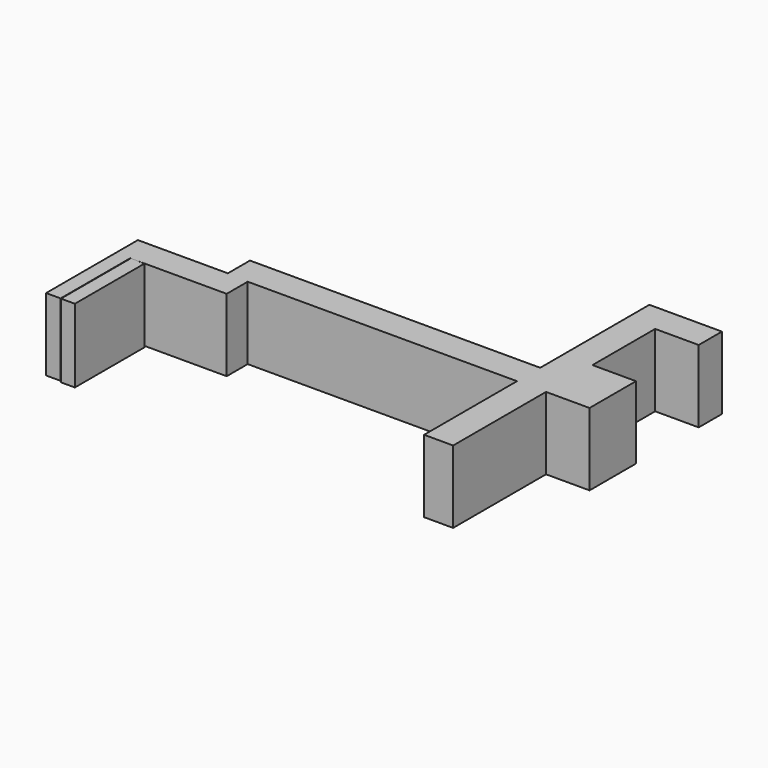
from build123d import *

# Parameters (mm, degrees)
F0_W      = 115
F0_H      = 25
F1_DEPTH  = 10
F2_W      = 10
F2_H      = 25
F3_DEPTH  = 9.05
F4_W      = 10
F4_H      = 25
F5_DEPTH  = 40
F6_W      = 15
F6_H      = 25
F7_DEPTH  = 47
F8_W      = 5
F8_H      = 27
F9_DEPTH  = 25
F10_W     = 9.525
F10_H     = 25
F11_DEPTH = 36
F12_W     = 10
F12_H     = 25
F13_DEPTH = 30
F14_DEPTH = 10
F15_DEPTH = 10
F16_W     = 2.78
F16_H     = 9.05
F17_DEPTH = 25
F18_W     = 5
F18_H     = 39.525
F20_DEPTH = 25
F21_DEPTH = 25.4


with BuildPart() as f1:
    # F0 (on Front) → F1 (new body)
    with BuildSketch(Plane.XZ):
        with Locations((2.0515378565, 24.5875327226)):
            Rectangle(F0_W, F0_H)
    extrude(amount=F1_DEPTH)

    # F2 (on face) → F3 (join)
    with BuildSketch(Plane.XZ.offset(10)):
        with Locations((-50.4484621435, 24.5875327226)):
            Rectangle(F2_W, F2_H)
    extrude(amount=F3_DEPTH)

    # F4 (on face) → F5 (join)
    with BuildSketch(Plane.XZ.offset(10)):
        with Locations((49.5515378565, 24.5875327226)):
            Rectangle(F4_W, F4_H)
    extrude(amount=F5_DEPTH)

    # F6 (on face) → F7 (join)
    with BuildSketch(Plane(origin=(0, 0, 0), x_dir=(-1, 0, 0), z_dir=(0, 1, 0))):
        with Locations((-52.0515378565, 24.5875327226)):
            Rectangle(F6_W, F6_H)
    extrude(amount=F7_DEPTH)

    # F8 (on face) → F9 (cut)
    with BuildSketch(Plane(origin=(0, 0, 12.0875327226), x_dir=(1, 0, 0), z_dir=(0, 0, -1))):
        with Locations((57.0515378565, -23.5)):
            Rectangle(F8_W, F8_H)
    extrude(amount=-F9_DEPTH, mode=Mode.SUBTRACT)

    # F10 (on face) → F11 (join)
    with BuildSketch(Plane(origin=(-55.4484621435, 0, 0), x_dir=(0, -1, 0), z_dir=(-1, 0, 0))):
        with Locations((14.2875, 24.5875327226)):
            Rectangle(F10_W, F10_H)
    extrude(amount=F11_DEPTH)

    # F12 (on face) → F13 (join)
    with BuildSketch(Plane.XZ.offset(19.05)):
        with Locations((-86.4484621435, 24.5875327226)):
            Rectangle(F12_W, F12_H)
    extrude(amount=F13_DEPTH)

    # F14 (add): a face of the model
    f14_faces = [f1.faces().sort_by_distance(p)[0] for p in [
        (59.5515378565, 0, 24.5875327226),
    ]]
    extrude(f14_faces, amount=F14_DEPTH)

    # F15 (add): a face of the model
    f15_faces = [f1.faces().sort_by_distance(p)[0] for p in [
        (59.5515378565, 42, 24.5875327226),
    ]]
    extrude(f15_faces, amount=F15_DEPTH)

    # F16 (on face) → F17 (cut)
    with BuildSketch(Plane.XY.offset(37.0875327226)):
        with Locations((-46.8384621435, -14.525)):
            Rectangle(F16_W, F16_H)
    extrude(amount=-F17_DEPTH, mode=Mode.SUBTRACT)

    # F18 (on face) → F20 (cut)
    with BuildSketch(Plane.XY.offset(37.0875327226)):
        with Locations((-88.9484621435, -29.2875)):
            Rectangle(F18_W, F18_H)
    extrude(amount=-F20_DEPTH, mode=Mode.SUBTRACT)


with BuildPart() as f21:
    # F19 (on face) → F21 (new body)
    with BuildSketch(Plane.XY.offset(37.0875327226)):
        Polygon((-76.4999240637, -49.0866973996), (-76.4999240637, -19.1388912499), (-78.9888751906, -19.05), (-81.2915712595, -19.05), (-81.2915712595, -49.0866973996), align=None)
    extrude(amount=-F21_DEPTH)


solid = Compound([f1.part, f21.part])
